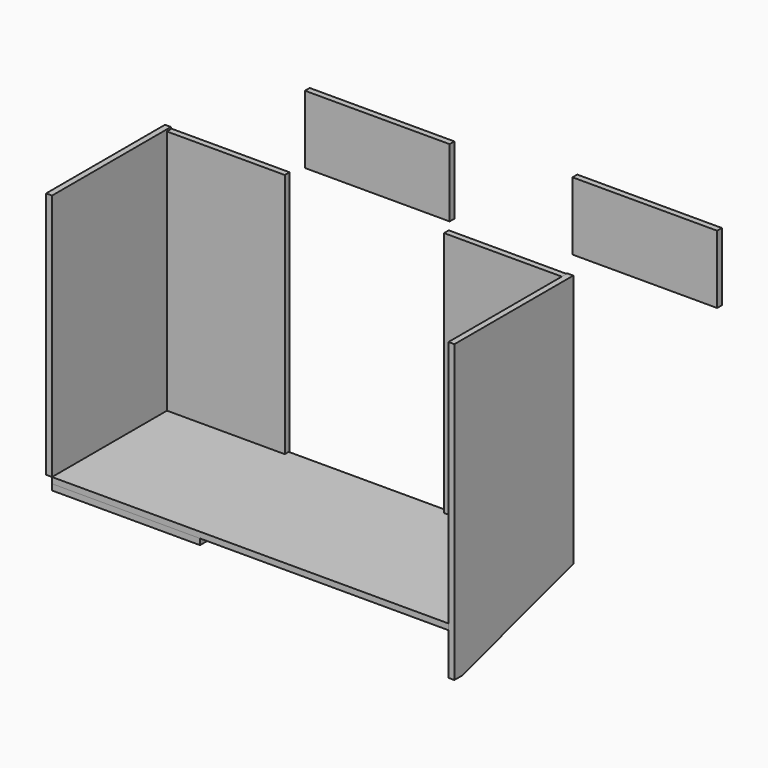
from build123d import *

# Parameters (mm, degrees)
F0_W     = 1200
F0_H     = 450
F1_DEPTH = 18
F2_W     = 357
F2_H     = 746
F2_H_2   = 744
F2_W_2   = 438
F2_H_3   = 206
F3_DEPTH = 18
F5_DEPTH = 18
F6_W     = 450
F6_H     = 750
F7_DEPTH = 18
F8_W     = 448
F8_H     = 450
F9_DEPTH = 18


with BuildPart() as f1:
    # F0 (on Top) → F1 (new body)
    with BuildSketch(Plane.XY):
        Rectangle(F0_W, F0_H)
    extrude(amount=F1_DEPTH)


with BuildPart() as f3:
    # F2 (on face) → F3 (new body)
    with BuildSketch(Plane(origin=(0, 225, 0), x_dir=(-1, 0, 0), z_dir=(0, 1, 0))):
        with Locations((-419.5, 393)):
            Rectangle(F2_W, F2_H)
        with Locations((419.5, 392)):
            Rectangle(F2_W, F2_H_2)
        with Locations((-848.970991, 938.160941)):
            Rectangle(F2_W_2, F2_H_3)
        with Locations((-39.080274, 905.523107)):
            Rectangle(F2_W_2, F2_H_3)
    extrude(amount=-F3_DEPTH)


with BuildPart() as f5:
    # F4 (on face) → F5 (new body)
    with BuildSketch(Plane.YZ.offset(600)):
        Polygon((-225, 768), (-225, -127), (-195, -127), (225, 0), (225, 768), align=None)
    extrude(amount=F5_DEPTH)


with BuildPart() as f7:
    # F6 (on face) → F7 (new body)
    with BuildSketch(Plane(origin=(-600, 0, 0), x_dir=(0, -1, 0), z_dir=(-1, 0, 0))):
        with Locations((0, 393)):
            Rectangle(F6_W, F6_H)
    extrude(amount=F7_DEPTH)


with BuildPart() as f9:
    # F8 (on face) → F9 (new body)
    with BuildSketch(Plane(origin=(0, 0, 0), x_dir=(1, 0, 0), z_dir=(0, 0, -1))):
        with Locations((-376, 0)):
            Rectangle(F8_W, F8_H)
    extrude(amount=F9_DEPTH)


solid = Compound([f1.part, f3.part, f5.part, f7.part, f9.part])
